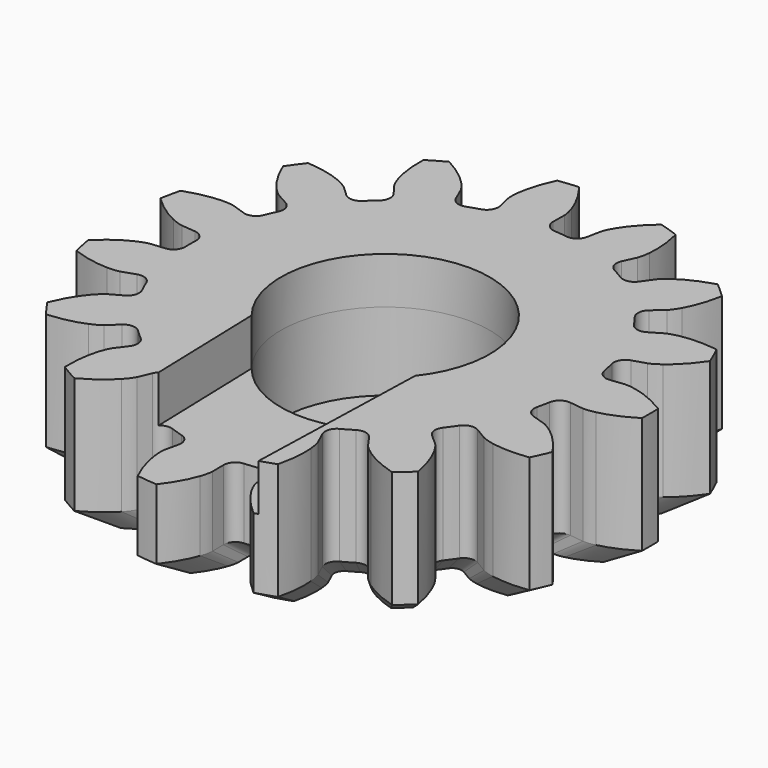
from build123d import *

# Parameters (mm, degrees)
SKETCH194_R     = 3.35
PAD127031_DEPTH = 4
PAD127030_DEPTH = 1.5


with BuildPart() as pad127031:
    # Sketch194 → Pad127031 (new body)
    with BuildSketch(Plane(origin=(35, 160, 18), x_dir=(0, 1, 0), z_dir=(0, 0, 1))):
        Circle(SKETCH194_R)
    extrude(amount=-PAD127031_DEPTH)


with BuildPart() as servohorncutout:
    # Sketch193 → Pad127030 (new body)
    with BuildSketch(Plane(origin=(35, 160, 18), x_dir=(0, 1, 0), z_dir=(0, 0, 1))):
        with BuildLine():
            ThreePointArc((-2.081316, -2.625), (3.35, 0), (-2.081316, 2.625))
            Line((-14.816386, 2.24902), (-2.081316, 2.625))
            ThreePointArc((-14.816386, 2.24902), (-17, 0), (-14.816386, -2.24902))
            Line((-14.816386, -2.24902), (-2.081316, -2.625))
        make_face()
    extrude(amount=-PAD127030_DEPTH)

    # Fusion004020024: union Pad127031
    add(pad127031.part)


with BuildPart() as servogear:
    # InvoluteGear008 → Loft008 section 0
    with BuildSketch(Plane.XY):
        with BuildLine():
            Line((5.582043, -0.670951), (5.961836, -0.715937))
            add(Edge.make_bspline(
                [(5.961836, -0.715937), (5.998774, -0.717834), (6.109807, -0.718548), (6.29569, -0.67705)],
                knots=[0, 0, 0, 0, 1, 1, 1, 1], degree=3))
            add(Edge.make_bspline(
                [(6.29569, -0.67705), (6.517506, -0.626527), (6.834998, -0.516331), (7.22067, -0.278475)],
                knots=[0, 0, 0, 0, 1, 1, 1, 1], degree=3))
            ThreePointArc((7.22067, -0.278475), (7.226039, 0), (7.22067, 0.278475))
            add(Edge.make_bspline(
                [(7.22067, 0.278475), (6.834998, 0.516331), (6.517506, 0.626527), (6.29569, 0.67705)],
                knots=[0, 0, 0, 0, 1, 1, 1, 1], degree=3))
            add(Edge.make_bspline(
                [(6.29569, 0.67705), (6.109807, 0.718548), (5.998774, 0.717834), (5.961836, 0.715937)],
                knots=[0, 0, 0, 0, 1, 1, 1, 1], degree=3))
            Line((5.961836, 0.715937), (5.582043, 0.670951))
            ThreePointArc((5.582043, 0.670951), (5.354491, 0.731128), (5.230276, 0.931057))
            ThreePointArc((5.230276, 0.931057), (5.196409, 1.104531), (5.15679, 1.276782))
            ThreePointArc((5.15679, 1.276782), (5.188948, 1.509949), (5.37235, 1.657477))
            Line((5.37235, 1.657477), (5.737606, 1.770857))
            add(Edge.make_bspline(
                [(5.737606, 1.770857), (5.772122, 1.784147), (5.873846, 1.828657), (6.02678, 1.942172)],
                knots=[0, 0, 0, 0, 1, 1, 1, 1], degree=3))
            add(Edge.make_bspline(
                [(6.02678, 1.942172), (6.208869, 2.078547), (6.454092, 2.308352), (6.709676, 2.682511)],
                knots=[0, 0, 0, 0, 1, 1, 1, 1], degree=3))
            ThreePointArc((6.709676, 2.682511), (6.601315, 2.939095), (6.483144, 3.191311))
            add(Edge.make_bspline(
                [(6.483144, 3.191311), (6.03407, 3.251736), (5.699206, 3.22327), (5.476018, 3.179204)],
                knots=[0, 0, 0, 0, 1, 1, 1, 1], degree=3))
            add(Edge.make_bspline(
                [(5.476018, 3.179204), (5.289327, 3.141508), (5.188183, 3.095695), (5.155211, 3.078938)],
                knots=[0, 0, 0, 0, 1, 1, 1, 1], degree=3))
            Line((5.155211, 3.078938), (4.82655, 2.883365))
            ThreePointArc((4.82655, 2.883365), (4.594195, 2.845786), (4.3994, 2.977908))
            ThreePointArc((4.3994, 2.977908), (4.297903, 3.122609), (4.191648, 3.263854))
            ThreePointArc((4.191648, 3.263854), (4.126188, 3.489942), (4.233729, 3.699313))
            Line((4.233729, 3.699313), (4.521292, 3.951453))
            add(Edge.make_bspline(
                [(4.521292, 3.951453), (4.547418, 3.977633), (4.622244, 4.05967), (4.715785, 4.225574)],
                knots=[0, 0, 0, 0, 1, 1, 1, 1], degree=3))
            add(Edge.make_bspline(
                [(4.715785, 4.225574), (4.826663, 4.424222), (4.957215, 4.7339), (5.038519, 5.179667)],
                knots=[0, 0, 0, 0, 1, 1, 1, 1], degree=3))
            ThreePointArc((5.038519, 5.179667), (4.835164, 5.369993), (4.624624, 5.55234))
            add(Edge.make_bspline(
                [(4.624624, 5.55234), (4.189797, 5.424886), (3.895462, 5.262679), (3.709492, 5.131644)],
                knots=[0, 0, 0, 0, 1, 1, 1, 1], degree=3))
            add(Edge.make_bspline(
                [(3.709492, 5.131644), (3.554274, 5.021274), (3.480508, 4.938283), (3.457203, 4.909563)],
                knots=[0, 0, 0, 0, 1, 1, 1, 1], degree=3))
            Line((3.457203, 4.909563), (3.236502, 4.59722))
            ThreePointArc((3.236502, 4.59722), (3.03952, 4.468383), (2.807828, 4.509851))
            ThreePointArc((2.807828, 4.509851), (2.65625, 4.60076), (2.501732, 4.686576))
            ThreePointArc((2.501732, 4.686576), (2.349973, 4.866493), (2.363058, 5.101503))
            Line((2.363058, 5.101503), (2.523205, 5.448807))
            add(Edge.make_bspline(
                [(2.523205, 5.448807), (2.536424, 5.48335), (2.571414, 5.588729), (2.589388, 5.778337)],
                knots=[0, 0, 0, 0, 1, 1, 1, 1], degree=3))
            add(Edge.make_bspline(
                [(2.589388, 5.778337), (2.609883, 6.004909), (2.603191, 6.340914), (2.496155, 6.781212)],
                knots=[0, 0, 0, 0, 1, 1, 1, 1], degree=3))
            ThreePointArc((2.496155, 6.781212), (2.232969, 6.872371), (1.966464, 6.953319))
            add(Edge.make_bspline(
                [(1.966464, 6.953319), (1.62107, 6.660024), (1.418157, 6.392124), (1.301562, 6.196777)],
                knots=[0, 0, 0, 0, 1, 1, 1, 1], degree=3))
            add(Edge.make_bspline(
                [(1.301562, 6.196777), (1.204655, 6.032816), (1.171022, 5.926996), (1.161412, 5.89128)],
                knots=[0, 0, 0, 0, 1, 1, 1, 1], degree=3))
            Line((1.161412, 5.89128), (1.086834, 5.516173))
            ThreePointArc((1.086834, 5.516173), (0.959285, 5.318355), (0.730757, 5.262001))
            ThreePointArc((0.730757, 5.262001), (0.555307, 5.283398), (0.379244, 5.298946))
            ThreePointArc((0.379244, 5.298946), (0.167426, 5.401583), (0.083793, 5.621597))
            Line((0.083793, 5.621597), (0.088833, 6.004013))
            add(Edge.make_bspline(
                [(0.088833, 6.004013), (0.086859, 6.040946), (0.075963, 6.151446), (0.015263, 6.331972)],
                knots=[0, 0, 0, 0, 1, 1, 1, 1], degree=3))
            add(Edge.make_bspline(
                [(0.015263, 6.331972), (-0.05817, 6.547292), (-0.200949, 6.851526), (-0.477816, 7.210223)],
                knots=[0, 0, 0, 0, 1, 1, 1, 1], degree=3))
            ThreePointArc((-0.477816, 7.210223), (-0.755327, 7.186454), (-1.031715, 7.152006))
            add(Edge.make_bspline(
                [(-1.031715, 7.152006), (-1.227955, 6.743583), (-1.30436, 6.416312), (-1.33142, 6.19043)],
                knots=[0, 0, 0, 0, 1, 1, 1, 1], degree=3))
            add(Edge.make_bspline(
                [(-1.33142, 6.19043), (-1.35326, 6.001229), (-1.340944, 5.890878), (-1.335196, 5.854341)],
                knots=[0, 0, 0, 0, 1, 1, 1, 1], degree=3))
            Line((-1.335196, 5.854341), (-1.250757, 5.48133))
            ThreePointArc((-1.250757, 5.48133), (-1.28682, 5.248735), (-1.472669, 5.104302))
            ThreePointArc((-1.472669, 5.104302), (-1.641653, 5.052488), (-1.808819, 4.995081))
            ThreePointArc((-1.808819, 4.995081), (-2.04407, 5.00269), (-2.209961, 5.169666))
            Line((-2.209961, 5.169666), (-2.360899, 5.52107))
            add(Edge.make_bspline(
                [(-2.360899, 5.52107), (-2.377724, 5.554008), (-2.432623, 5.650522), (-2.561502, 5.790753)],
                knots=[0, 0, 0, 0, 1, 1, 1, 1], degree=3))
            add(Edge.make_bspline(
                [(-2.561502, 5.790753), (-2.716164, 5.957589), (-2.970343, 6.177447), (-3.369168, 6.392521)],
                knots=[0, 0, 0, 0, 1, 1, 1, 1], degree=3))
            ThreePointArc((-3.369168, 6.392521), (-3.613019, 6.257933), (-3.851502, 6.114046))
            add(Edge.make_bspline(
                [(-3.851502, 6.114046), (-3.864655, 5.661116), (-3.801341, 5.331062), (-3.734188, 5.113702)],
                knots=[0, 0, 0, 0, 1, 1, 1, 1], degree=3))
            add(Edge.make_bspline(
                [(-3.734188, 5.113702), (-3.677184, 4.931975), (-3.62105, 4.836173), (-3.600938, 4.805133)],
                knots=[0, 0, 0, 0, 1, 1, 1, 1], degree=3))
            Line((-3.600938, 4.805133), (-3.372082, 4.498715))
            ThreePointArc((-3.372082, 4.498715), (-3.310421, 4.271562), (-3.421457, 4.064024))
            ThreePointArc((-3.421457, 4.064024), (-3.554756, 3.947957), (-3.684121, 3.82752))
            ThreePointArc((-3.684121, 3.82752), (-3.902128, 3.738786), (-4.121593, 3.823853))
            Line((-4.121593, 3.823853), (-4.40241, 4.083485))
            add(Edge.make_bspline(
                [(-4.40241, 4.083485), (-4.431178, 4.106731), (-4.520586, 4.172572), (-4.69536, 4.248259)],
                knots=[0, 0, 0, 0, 1, 1, 1, 1], degree=3))
            add(Edge.make_bspline(
                [(-4.69536, 4.248259), (-4.904509, 4.337765), (-5.226137, 4.435232), (-5.677961, 4.469495)],
                knots=[0, 0, 0, 0, 1, 1, 1, 1], degree=3))
            ThreePointArc((-5.677961, 4.469495), (-5.845988, 4.247359), (-6.005328, 4.018912))
            add(Edge.make_bspline(
                [(-6.005328, 4.018912), (-5.833121, 3.59979), (-5.641036, 3.324023), (-5.49128, 3.152769)],
                knots=[0, 0, 0, 0, 1, 1, 1, 1], degree=3))
            add(Edge.make_bspline(
                [(-5.49128, 3.152769), (-5.36529, 3.009937), (-5.275042, 2.945251), (-5.244044, 2.925075)],
                knots=[0, 0, 0, 0, 1, 1, 1, 1], degree=3))
            Line((-5.244044, 2.925075), (-4.910342, 2.738232))
            ThreePointArc((-4.910342, 2.738232), (-4.761621, 2.555796), (-4.778644, 2.321038))
            ThreePointArc((-4.778644, 2.321038), (-4.85321, 2.160788), (-4.922405, 1.998147))
            ThreePointArc((-4.922405, 1.998147), (-5.085473, 1.828412), (-5.320563, 1.816861))
            Line((-5.320563, 1.816861), (-5.682704, 1.939827))
            add(Edge.make_bspline(
                [(-5.682704, 1.939827), (-5.71844, 1.949363), (-5.826899, 1.973146), (-6.017347, 1.971203)],
                knots=[0, 0, 0, 0, 1, 1, 1, 1], degree=3))
            add(Edge.make_bspline(
                [(-6.017347, 1.971203), (-6.24482, 1.967902), (-6.578285, 1.926124), (-7.004983, 1.773652)],
                knots=[0, 0, 0, 0, 1, 1, 1, 1], degree=3))
            ThreePointArc((-7.004983, 1.773652), (-7.068132, 1.502378), (-7.120779, 1.228872))
            add(Edge.make_bspline(
                [(-7.120779, 1.228872), (-6.792988, 0.916028), (-6.505345, 0.742229), (-6.298881, 0.646692)],
                knots=[0, 0, 0, 0, 1, 1, 1, 1], degree=3))
            add(Edge.make_bspline(
                [(-6.298881, 0.646692), (-6.125688, 0.567455), (-6.016932, 0.545067), (-5.980408, 0.539244)],
                knots=[0, 0, 0, 0, 1, 1, 1, 1], degree=3))
            Line((-5.980408, 0.539244), (-5.59956, 0.504283))
            ThreePointArc((-5.59956, 0.504283), (-5.389493, 0.39811), (-5.30956, 0.176725))
            ThreePointArc((-5.30956, 0.176725), (-5.3125, 0), (-5.30956, -0.176725))
            ThreePointArc((-5.30956, -0.176725), (-5.389493, -0.39811), (-5.59956, -0.504283))
            Line((-5.59956, -0.504283), (-5.980408, -0.539244))
            add(Edge.make_bspline(
                [(-5.980408, -0.539244), (-6.016932, -0.545067), (-6.125688, -0.567455), (-6.298881, -0.646692)],
                knots=[0, 0, 0, 0, 1, 1, 1, 1], degree=3))
            add(Edge.make_bspline(
                [(-6.298881, -0.646692), (-6.505345, -0.742229), (-6.792988, -0.916028), (-7.120779, -1.228872)],
                knots=[0, 0, 0, 0, 1, 1, 1, 1], degree=3))
            ThreePointArc((-7.120779, -1.228872), (-7.068132, -1.502378), (-7.004983, -1.773652))
            add(Edge.make_bspline(
                [(-7.004983, -1.773652), (-6.578285, -1.926124), (-6.24482, -1.967902), (-6.017347, -1.971203)],
                knots=[0, 0, 0, 0, 1, 1, 1, 1], degree=3))
            add(Edge.make_bspline(
                [(-6.017347, -1.971203), (-5.826899, -1.973146), (-5.71844, -1.949363), (-5.682704, -1.939827)],
                knots=[0, 0, 0, 0, 1, 1, 1, 1], degree=3))
            Line((-5.682704, -1.939827), (-5.320563, -1.816861))
            ThreePointArc((-5.320563, -1.816861), (-5.085473, -1.828412), (-4.922405, -1.998147))
            ThreePointArc((-4.922405, -1.998147), (-4.85321, -2.160788), (-4.778644, -2.321038))
            ThreePointArc((-4.778644, -2.321038), (-4.761621, -2.555796), (-4.910342, -2.738232))
            Line((-4.910342, -2.738232), (-5.244044, -2.925075))
            add(Edge.make_bspline(
                [(-5.244044, -2.925075), (-5.275042, -2.945251), (-5.36529, -3.009937), (-5.49128, -3.152769)],
                knots=[0, 0, 0, 0, 1, 1, 1, 1], degree=3))
            add(Edge.make_bspline(
                [(-5.49128, -3.152769), (-5.641036, -3.324023), (-5.833121, -3.59979), (-6.005328, -4.018912)],
                knots=[0, 0, 0, 0, 1, 1, 1, 1], degree=3))
            ThreePointArc((-6.005328, -4.018912), (-5.845988, -4.247359), (-5.677961, -4.469495))
            add(Edge.make_bspline(
                [(-5.677961, -4.469495), (-5.226137, -4.435232), (-4.904509, -4.337765), (-4.69536, -4.248259)],
                knots=[0, 0, 0, 0, 1, 1, 1, 1], degree=3))
            add(Edge.make_bspline(
                [(-4.69536, -4.248259), (-4.520586, -4.172572), (-4.431178, -4.106731), (-4.40241, -4.083485)],
                knots=[0, 0, 0, 0, 1, 1, 1, 1], degree=3))
            Line((-4.40241, -4.083485), (-4.121593, -3.823853))
            ThreePointArc((-4.121593, -3.823853), (-3.902128, -3.738786), (-3.684121, -3.82752))
            ThreePointArc((-3.684121, -3.82752), (-3.554756, -3.947957), (-3.421457, -4.064024))
            ThreePointArc((-3.421457, -4.064024), (-3.310421, -4.271562), (-3.372082, -4.498715))
            Line((-3.372082, -4.498715), (-3.600938, -4.805133))
            add(Edge.make_bspline(
                [(-3.600938, -4.805133), (-3.62105, -4.836173), (-3.677184, -4.931975), (-3.734188, -5.113702)],
                knots=[0, 0, 0, 0, 1, 1, 1, 1], degree=3))
            add(Edge.make_bspline(
                [(-3.734188, -5.113702), (-3.801341, -5.331062), (-3.864655, -5.661116), (-3.851502, -6.114046)],
                knots=[0, 0, 0, 0, 1, 1, 1, 1], degree=3))
            ThreePointArc((-3.851502, -6.114046), (-3.613019, -6.257933), (-3.369168, -6.392521))
            add(Edge.make_bspline(
                [(-3.369168, -6.392521), (-2.970343, -6.177447), (-2.716164, -5.957589), (-2.561502, -5.790753)],
                knots=[0, 0, 0, 0, 1, 1, 1, 1], degree=3))
            add(Edge.make_bspline(
                [(-2.561502, -5.790753), (-2.432623, -5.650522), (-2.377724, -5.554008), (-2.360899, -5.52107)],
                knots=[0, 0, 0, 0, 1, 1, 1, 1], degree=3))
            Line((-2.360899, -5.52107), (-2.209961, -5.169666))
            ThreePointArc((-2.209961, -5.169666), (-2.04407, -5.00269), (-1.808819, -4.995081))
            ThreePointArc((-1.808819, -4.995081), (-1.641653, -5.052488), (-1.472669, -5.104302))
            ThreePointArc((-1.472669, -5.104302), (-1.28682, -5.248735), (-1.250757, -5.48133))
            Line((-1.250757, -5.48133), (-1.335196, -5.854341))
            add(Edge.make_bspline(
                [(-1.335196, -5.854341), (-1.340944, -5.890878), (-1.35326, -6.001229), (-1.33142, -6.19043)],
                knots=[0, 0, 0, 0, 1, 1, 1, 1], degree=3))
            add(Edge.make_bspline(
                [(-1.33142, -6.19043), (-1.30436, -6.416312), (-1.227955, -6.743583), (-1.031715, -7.152006)],
                knots=[0, 0, 0, 0, 1, 1, 1, 1], degree=3))
            ThreePointArc((-1.031715, -7.152006), (-0.755327, -7.186454), (-0.477816, -7.210223))
            add(Edge.make_bspline(
                [(-0.477816, -7.210223), (-0.200949, -6.851526), (-0.05817, -6.547292), (0.015263, -6.331972)],
                knots=[0, 0, 0, 0, 1, 1, 1, 1], degree=3))
            add(Edge.make_bspline(
                [(0.015263, -6.331972), (0.075963, -6.151446), (0.086859, -6.040946), (0.088833, -6.004013)],
                knots=[0, 0, 0, 0, 1, 1, 1, 1], degree=3))
            Line((0.088833, -6.004013), (0.083793, -5.621597))
            ThreePointArc((0.083793, -5.621597), (0.167426, -5.401583), (0.379244, -5.298946))
            ThreePointArc((0.379244, -5.298946), (0.555307, -5.283398), (0.730757, -5.262001))
            ThreePointArc((0.730757, -5.262001), (0.959285, -5.318355), (1.086834, -5.516173))
            Line((1.086834, -5.516173), (1.161412, -5.89128))
            add(Edge.make_bspline(
                [(1.161412, -5.89128), (1.171022, -5.926996), (1.204655, -6.032816), (1.301562, -6.196777)],
                knots=[0, 0, 0, 0, 1, 1, 1, 1], degree=3))
            add(Edge.make_bspline(
                [(1.301562, -6.196777), (1.418157, -6.392124), (1.62107, -6.660024), (1.966464, -6.953319)],
                knots=[0, 0, 0, 0, 1, 1, 1, 1], degree=3))
            ThreePointArc((1.966464, -6.953319), (2.232969, -6.872371), (2.496155, -6.781212))
            add(Edge.make_bspline(
                [(2.496155, -6.781212), (2.603191, -6.340914), (2.609883, -6.004909), (2.589388, -5.778337)],
                knots=[0, 0, 0, 0, 1, 1, 1, 1], degree=3))
            add(Edge.make_bspline(
                [(2.589388, -5.778337), (2.571414, -5.588729), (2.536424, -5.48335), (2.523205, -5.448807)],
                knots=[0, 0, 0, 0, 1, 1, 1, 1], degree=3))
            Line((2.523205, -5.448807), (2.363058, -5.101503))
            ThreePointArc((2.363058, -5.101503), (2.349973, -4.866493), (2.501732, -4.686576))
            ThreePointArc((2.501732, -4.686576), (2.65625, -4.60076), (2.807828, -4.509851))
            ThreePointArc((2.807828, -4.509851), (3.03952, -4.468383), (3.236502, -4.59722))
            Line((3.236502, -4.59722), (3.457203, -4.909563))
            add(Edge.make_bspline(
                [(3.457203, -4.909563), (3.480508, -4.938283), (3.554274, -5.021274), (3.709492, -5.131644)],
                knots=[0, 0, 0, 0, 1, 1, 1, 1], degree=3))
            add(Edge.make_bspline(
                [(3.709492, -5.131644), (3.895462, -5.262679), (4.189797, -5.424886), (4.624624, -5.55234)],
                knots=[0, 0, 0, 0, 1, 1, 1, 1], degree=3))
            ThreePointArc((4.624624, -5.55234), (4.835164, -5.369993), (5.038519, -5.179667))
            add(Edge.make_bspline(
                [(5.038519, -5.179667), (4.957215, -4.7339), (4.826663, -4.424222), (4.715785, -4.225574)],
                knots=[0, 0, 0, 0, 1, 1, 1, 1], degree=3))
            add(Edge.make_bspline(
                [(4.715785, -4.225574), (4.622244, -4.05967), (4.547418, -3.977633), (4.521292, -3.951453)],
                knots=[0, 0, 0, 0, 1, 1, 1, 1], degree=3))
            Line((4.521292, -3.951453), (4.233729, -3.699313))
            ThreePointArc((4.233729, -3.699313), (4.126188, -3.489942), (4.191648, -3.263854))
            ThreePointArc((4.191648, -3.263854), (4.297903, -3.122609), (4.3994, -2.977908))
            ThreePointArc((4.3994, -2.977908), (4.594195, -2.845786), (4.82655, -2.883365))
            Line((4.82655, -2.883365), (5.155211, -3.078938))
            add(Edge.make_bspline(
                [(5.155211, -3.078938), (5.188183, -3.095695), (5.289327, -3.141508), (5.476018, -3.179204)],
                knots=[0, 0, 0, 0, 1, 1, 1, 1], degree=3))
            add(Edge.make_bspline(
                [(5.476018, -3.179204), (5.699206, -3.22327), (6.03407, -3.251736), (6.483144, -3.191311)],
                knots=[0, 0, 0, 0, 1, 1, 1, 1], degree=3))
            ThreePointArc((6.483144, -3.191311), (6.601315, -2.939095), (6.709676, -2.682511))
            add(Edge.make_bspline(
                [(6.709676, -2.682511), (6.454092, -2.308352), (6.208869, -2.078547), (6.02678, -1.942172)],
                knots=[0, 0, 0, 0, 1, 1, 1, 1], degree=3))
            add(Edge.make_bspline(
                [(6.02678, -1.942172), (5.873846, -1.828657), (5.772122, -1.784147), (5.737606, -1.770857)],
                knots=[0, 0, 0, 0, 1, 1, 1, 1], degree=3))
            Line((5.737606, -1.770857), (5.37235, -1.657477))
            ThreePointArc((5.37235, -1.657477), (5.188948, -1.509949), (5.15679, -1.276782))
            ThreePointArc((5.15679, -1.276782), (5.196409, -1.104531), (5.230276, -0.931057))
            ThreePointArc((5.230276, -0.931057), (5.354491, -0.731128), (5.582043, -0.670951))
        make_face()
    # InvoluteGear007 → Loft008 section 1
    with BuildSketch(Plane.XY.offset(0.75)):
        with BuildLine():
            Line((6.567109, -0.789354), (7.013925, -0.842279))
            add(Edge.make_bspline(
                [(7.013925, -0.842279), (7.057381, -0.844511), (7.188009, -0.84535), (7.406694, -0.79653)],
                knots=[0, 0, 0, 0, 1, 1, 1, 1], degree=3))
            add(Edge.make_bspline(
                [(7.406694, -0.79653), (7.667654, -0.737091), (8.041174, -0.607449), (8.494906, -0.327618)],
                knots=[0, 0, 0, 0, 1, 1, 1, 1], degree=3))
            ThreePointArc((8.494906, -0.327618), (8.501222, 0), (8.494906, 0.327618))
            add(Edge.make_bspline(
                [(8.494906, 0.327618), (8.041174, 0.607449), (7.667654, 0.737091), (7.406694, 0.79653)],
                knots=[0, 0, 0, 0, 1, 1, 1, 1], degree=3))
            add(Edge.make_bspline(
                [(7.406694, 0.79653), (7.188009, 0.84535), (7.057381, 0.844511), (7.013925, 0.842279)],
                knots=[0, 0, 0, 0, 1, 1, 1, 1], degree=3))
            Line((7.013925, 0.842279), (6.567109, 0.789354))
            ThreePointArc((6.567109, 0.789354), (6.299402, 0.860151), (6.153266, 1.095361))
            ThreePointArc((6.153266, 1.095361), (6.113423, 1.299448), (6.066812, 1.502097))
            ThreePointArc((6.066812, 1.502097), (6.104644, 1.776411), (6.320412, 1.949974))
            Line((6.320412, 1.949974), (6.750125, 2.083361))
            add(Edge.make_bspline(
                [(6.750125, 2.083361), (6.790732, 2.098996), (6.910408, 2.151361), (7.090329, 2.284908)],
                knots=[0, 0, 0, 0, 1, 1, 1, 1], degree=3))
            add(Edge.make_bspline(
                [(7.090329, 2.284908), (7.304552, 2.44535), (7.593049, 2.715708), (7.893737, 3.155896)],
                knots=[0, 0, 0, 0, 1, 1, 1, 1], degree=3))
            ThreePointArc((7.893737, 3.155896), (7.766253, 3.457758), (7.627228, 3.754483))
            add(Edge.make_bspline(
                [(7.627228, 3.754483), (7.098906, 3.825572), (6.704948, 3.792082), (6.442374, 3.74024)],
                knots=[0, 0, 0, 0, 1, 1, 1, 1], degree=3))
            add(Edge.make_bspline(
                [(6.442374, 3.74024), (6.222738, 3.695892), (6.103745, 3.641994), (6.064954, 3.62228)],
                knots=[0, 0, 0, 0, 1, 1, 1, 1], degree=3))
            Line((6.064954, 3.62228), (5.678294, 3.392194))
            ThreePointArc((5.678294, 3.392194), (5.404935, 3.347984), (5.175765, 3.503421))
            ThreePointArc((5.175765, 3.503421), (5.056356, 3.673658), (4.931351, 3.839828))
            ThreePointArc((4.931351, 3.839828), (4.854339, 4.105815), (4.980858, 4.352132))
            Line((4.980858, 4.352132), (5.319167, 4.648768))
            add(Edge.make_bspline(
                [(5.319167, 4.648768), (5.349903, 4.679568), (5.437934, 4.776082), (5.547983, 4.971264)],
                knots=[0, 0, 0, 0, 1, 1, 1, 1], degree=3))
            add(Edge.make_bspline(
                [(5.547983, 4.971264), (5.678427, 5.204967), (5.832018, 5.569294), (5.927669, 6.093726)],
                knots=[0, 0, 0, 0, 1, 1, 1, 1], degree=3))
            ThreePointArc((5.927669, 6.093726), (5.688428, 6.317639), (5.440734, 6.532165))
            add(Edge.make_bspline(
                [(5.440734, 6.532165), (4.929173, 6.382219), (4.582897, 6.191387), (4.364109, 6.037229)],
                knots=[0, 0, 0, 0, 1, 1, 1, 1], degree=3))
            add(Edge.make_bspline(
                [(4.364109, 6.037229), (4.181499, 5.907381), (4.094716, 5.809744), (4.067297, 5.775957)],
                knots=[0, 0, 0, 0, 1, 1, 1, 1], degree=3))
            Line((4.067297, 5.775957), (3.80765, 5.408494))
            ThreePointArc((3.80765, 5.408494), (3.575906, 5.256921), (3.303327, 5.305707))
            ThreePointArc((3.303327, 5.305707), (3.125, 5.412659), (2.943214, 5.513619))
            ThreePointArc((2.943214, 5.513619), (2.764674, 5.725286), (2.780068, 6.001768))
            Line((2.780068, 6.001768), (2.968477, 6.410361))
            add(Edge.make_bspline(
                [(2.968477, 6.410361), (2.984028, 6.451), (3.025193, 6.574975), (3.046339, 6.798043)],
                knots=[0, 0, 0, 0, 1, 1, 1, 1], degree=3))
            add(Edge.make_bspline(
                [(3.046339, 6.798043), (3.070451, 7.064599), (3.062577, 7.459899), (2.936653, 7.977896)],
                knots=[0, 0, 0, 0, 1, 1, 1, 1], degree=3))
            ThreePointArc((2.936653, 7.977896), (2.627022, 8.085143), (2.313487, 8.180375))
            add(Edge.make_bspline(
                [(2.313487, 8.180375), (1.907141, 7.835322), (1.66842, 7.520146), (1.53125, 7.290326)],
                knots=[0, 0, 0, 0, 1, 1, 1, 1], degree=3))
            add(Edge.make_bspline(
                [(1.53125, 7.290326), (1.417241, 7.09743), (1.377673, 6.972936), (1.366368, 6.930918)],
                knots=[0, 0, 0, 0, 1, 1, 1, 1], degree=3))
            Line((1.366368, 6.930918), (1.278628, 6.489615))
            ThreePointArc((1.278628, 6.489615), (1.12857, 6.256888), (0.859714, 6.190589))
            ThreePointArc((0.859714, 6.190589), (0.653303, 6.215762), (0.446169, 6.234054))
            ThreePointArc((0.446169, 6.234054), (0.196972, 6.354803), (0.09858, 6.613644))
            Line((0.09858, 6.613644), (0.10451, 7.063544))
            add(Edge.make_bspline(
                [(0.10451, 7.063544), (0.102187, 7.106995), (0.089368, 7.236995), (0.017956, 7.449379)],
                knots=[0, 0, 0, 0, 1, 1, 1, 1], degree=3))
            add(Edge.make_bspline(
                [(0.017956, 7.449379), (-0.068435, 7.702697), (-0.236411, 8.060619), (-0.562136, 8.482615)],
                knots=[0, 0, 0, 0, 1, 1, 1, 1], degree=3))
            ThreePointArc((-0.562136, 8.482615), (-0.88862, 8.454651), (-1.213783, 8.414124))
            add(Edge.make_bspline(
                [(-1.213783, 8.414124), (-1.444652, 7.933628), (-1.534541, 7.548603), (-1.566377, 7.282859)],
                knots=[0, 0, 0, 0, 1, 1, 1, 1], degree=3))
            add(Edge.make_bspline(
                [(-1.566377, 7.282859), (-1.592071, 7.060269), (-1.577582, 6.930444), (-1.570819, 6.88746)],
                knots=[0, 0, 0, 0, 1, 1, 1, 1], degree=3))
            Line((-1.570819, 6.88746), (-1.471479, 6.448624))
            ThreePointArc((-1.471479, 6.448624), (-1.513905, 6.174983), (-1.732552, 6.005062))
            ThreePointArc((-1.732552, 6.005062), (-1.931356, 5.944103), (-2.128023, 5.876565))
            ThreePointArc((-2.128023, 5.876565), (-2.404789, 5.885517), (-2.599954, 6.08196))
            Line((-2.599954, 6.08196), (-2.777528, 6.495377))
            add(Edge.make_bspline(
                [(-2.777528, 6.495377), (-2.797323, 6.534127), (-2.86191, 6.647673), (-3.013532, 6.81265)],
                knots=[0, 0, 0, 0, 1, 1, 1, 1], degree=3))
            add(Edge.make_bspline(
                [(-3.013532, 6.81265), (-3.195487, 7.008929), (-3.494521, 7.267585), (-3.963727, 7.520613)],
                knots=[0, 0, 0, 0, 1, 1, 1, 1], degree=3))
            ThreePointArc((-3.963727, 7.520613), (-4.250611, 7.362274), (-4.531178, 7.192995))
            add(Edge.make_bspline(
                [(-4.531178, 7.192995), (-4.546653, 6.660136), (-4.472166, 6.271838), (-4.393162, 6.01612)],
                knots=[0, 0, 0, 0, 1, 1, 1, 1], degree=3))
            add(Edge.make_bspline(
                [(-4.393162, 6.01612), (-4.326099, 5.802323), (-4.260058, 5.689616), (-4.236397, 5.653098)],
                knots=[0, 0, 0, 0, 1, 1, 1, 1], degree=3))
            Line((-4.236397, 5.653098), (-3.967155, 5.292606))
            ThreePointArc((-3.967155, 5.292606), (-3.894613, 5.025366), (-4.025244, 4.781204))
            ThreePointArc((-4.025244, 4.781204), (-4.182066, 4.644655), (-4.33426, 4.502965))
            ThreePointArc((-4.33426, 4.502965), (-4.590739, 4.398572), (-4.848932, 4.49865))
            Line((-4.848932, 4.49865), (-5.179306, 4.8041))
            add(Edge.make_bspline(
                [(-5.179306, 4.8041), (-5.21315, 4.831448), (-5.318337, 4.908908), (-5.523953, 4.997952)],
                knots=[0, 0, 0, 0, 1, 1, 1, 1], degree=3))
            add(Edge.make_bspline(
                [(-5.523953, 4.997952), (-5.770011, 5.103253), (-6.148397, 5.217919), (-6.679954, 5.258229)],
                knots=[0, 0, 0, 0, 1, 1, 1, 1], degree=3))
            ThreePointArc((-6.679954, 5.258229), (-6.877633, 4.996893), (-7.065092, 4.728132))
            add(Edge.make_bspline(
                [(-7.065092, 4.728132), (-6.862495, 4.235047), (-6.636513, 3.910615), (-6.46033, 3.709139)],
                knots=[0, 0, 0, 0, 1, 1, 1, 1], degree=3))
            add(Edge.make_bspline(
                [(-6.46033, 3.709139), (-6.312106, 3.541103), (-6.205932, 3.465001), (-6.169464, 3.441264)],
                knots=[0, 0, 0, 0, 1, 1, 1, 1], degree=3))
            Line((-6.169464, 3.441264), (-5.776873, 3.221449))
            ThreePointArc((-5.776873, 3.221449), (-5.601907, 3.006819), (-5.621934, 2.730633))
            ThreePointArc((-5.621934, 2.730633), (-5.709659, 2.542104), (-5.791064, 2.350761))
            ThreePointArc((-5.791064, 2.350761), (-5.982909, 2.151073), (-6.259486, 2.137483))
            Line((-6.259486, 2.137483), (-6.685535, 2.28215))
            add(Edge.make_bspline(
                [(-6.685535, 2.28215), (-6.727576, 2.293368), (-6.855175, 2.321348), (-7.079232, 2.319062)],
                knots=[0, 0, 0, 0, 1, 1, 1, 1], degree=3))
            add(Edge.make_bspline(
                [(-7.079232, 2.319062), (-7.346847, 2.315179), (-7.739159, 2.266028), (-8.241156, 2.086649)],
                knots=[0, 0, 0, 0, 1, 1, 1, 1], degree=3))
            ThreePointArc((-8.241156, 2.086649), (-8.31545, 1.767503), (-8.377387, 1.445732))
            add(Edge.make_bspline(
                [(-8.377387, 1.445732), (-7.99175, 1.07768), (-7.653347, 0.873211), (-7.410448, 0.760815)],
                knots=[0, 0, 0, 0, 1, 1, 1, 1], degree=3))
            add(Edge.make_bspline(
                [(-7.410448, 0.760815), (-7.206692, 0.667594), (-7.078744, 0.641256), (-7.035774, 0.634404)],
                knots=[0, 0, 0, 0, 1, 1, 1, 1], degree=3))
            Line((-7.035774, 0.634404), (-6.587718, 0.593274))
            ThreePointArc((-6.587718, 0.593274), (-6.34058, 0.468365), (-6.246541, 0.207911))
            ThreePointArc((-6.246541, 0.207911), (-6.25, 0), (-6.246541, -0.207911))
            ThreePointArc((-6.246541, -0.207911), (-6.34058, -0.468365), (-6.587718, -0.593274))
            Line((-6.587718, -0.593274), (-7.035774, -0.634404))
            add(Edge.make_bspline(
                [(-7.035774, -0.634404), (-7.078744, -0.641256), (-7.206692, -0.667594), (-7.410448, -0.760815)],
                knots=[0, 0, 0, 0, 1, 1, 1, 1], degree=3))
            add(Edge.make_bspline(
                [(-7.410448, -0.760815), (-7.653347, -0.873211), (-7.99175, -1.07768), (-8.377387, -1.445732)],
                knots=[0, 0, 0, 0, 1, 1, 1, 1], degree=3))
            ThreePointArc((-8.377387, -1.445732), (-8.31545, -1.767503), (-8.241156, -2.086649))
            add(Edge.make_bspline(
                [(-8.241156, -2.086649), (-7.739159, -2.266028), (-7.346847, -2.315179), (-7.079232, -2.319062)],
                knots=[0, 0, 0, 0, 1, 1, 1, 1], degree=3))
            add(Edge.make_bspline(
                [(-7.079232, -2.319062), (-6.855175, -2.321348), (-6.727576, -2.293368), (-6.685535, -2.28215)],
                knots=[0, 0, 0, 0, 1, 1, 1, 1], degree=3))
            Line((-6.685535, -2.28215), (-6.259486, -2.137483))
            ThreePointArc((-6.259486, -2.137483), (-5.982909, -2.151073), (-5.791064, -2.350761))
            ThreePointArc((-5.791064, -2.350761), (-5.709659, -2.542104), (-5.621934, -2.730633))
            ThreePointArc((-5.621934, -2.730633), (-5.601907, -3.006819), (-5.776873, -3.221449))
            Line((-5.776873, -3.221449), (-6.169464, -3.441264))
            add(Edge.make_bspline(
                [(-6.169464, -3.441264), (-6.205932, -3.465001), (-6.312106, -3.541103), (-6.46033, -3.709139)],
                knots=[0, 0, 0, 0, 1, 1, 1, 1], degree=3))
            add(Edge.make_bspline(
                [(-6.46033, -3.709139), (-6.636513, -3.910615), (-6.862495, -4.235047), (-7.065092, -4.728132)],
                knots=[0, 0, 0, 0, 1, 1, 1, 1], degree=3))
            ThreePointArc((-7.065092, -4.728132), (-6.877633, -4.996893), (-6.679954, -5.258229))
            add(Edge.make_bspline(
                [(-6.679954, -5.258229), (-6.148397, -5.217919), (-5.770011, -5.103253), (-5.523953, -4.997952)],
                knots=[0, 0, 0, 0, 1, 1, 1, 1], degree=3))
            add(Edge.make_bspline(
                [(-5.523953, -4.997952), (-5.318337, -4.908908), (-5.21315, -4.831448), (-5.179306, -4.8041)],
                knots=[0, 0, 0, 0, 1, 1, 1, 1], degree=3))
            Line((-5.179306, -4.8041), (-4.848932, -4.49865))
            ThreePointArc((-4.848932, -4.49865), (-4.590739, -4.398572), (-4.33426, -4.502965))
            ThreePointArc((-4.33426, -4.502965), (-4.182066, -4.644655), (-4.025244, -4.781204))
            ThreePointArc((-4.025244, -4.781204), (-3.894613, -5.025366), (-3.967155, -5.292606))
            Line((-3.967155, -5.292606), (-4.236397, -5.653098))
            add(Edge.make_bspline(
                [(-4.236397, -5.653098), (-4.260058, -5.689616), (-4.326099, -5.802323), (-4.393162, -6.01612)],
                knots=[0, 0, 0, 0, 1, 1, 1, 1], degree=3))
            add(Edge.make_bspline(
                [(-4.393162, -6.01612), (-4.472166, -6.271838), (-4.546653, -6.660136), (-4.531178, -7.192995)],
                knots=[0, 0, 0, 0, 1, 1, 1, 1], degree=3))
            ThreePointArc((-4.531178, -7.192995), (-4.250611, -7.362274), (-3.963727, -7.520613))
            add(Edge.make_bspline(
                [(-3.963727, -7.520613), (-3.494521, -7.267585), (-3.195487, -7.008929), (-3.013532, -6.81265)],
                knots=[0, 0, 0, 0, 1, 1, 1, 1], degree=3))
            add(Edge.make_bspline(
                [(-3.013532, -6.81265), (-2.86191, -6.647673), (-2.797323, -6.534127), (-2.777528, -6.495377)],
                knots=[0, 0, 0, 0, 1, 1, 1, 1], degree=3))
            Line((-2.777528, -6.495377), (-2.599954, -6.08196))
            ThreePointArc((-2.599954, -6.08196), (-2.404789, -5.885517), (-2.128023, -5.876565))
            ThreePointArc((-2.128023, -5.876565), (-1.931356, -5.944103), (-1.732552, -6.005062))
            ThreePointArc((-1.732552, -6.005062), (-1.513905, -6.174983), (-1.471479, -6.448624))
            Line((-1.471479, -6.448624), (-1.570819, -6.88746))
            add(Edge.make_bspline(
                [(-1.570819, -6.88746), (-1.577582, -6.930444), (-1.592071, -7.060269), (-1.566377, -7.282859)],
                knots=[0, 0, 0, 0, 1, 1, 1, 1], degree=3))
            add(Edge.make_bspline(
                [(-1.566377, -7.282859), (-1.534541, -7.548603), (-1.444652, -7.933628), (-1.213783, -8.414124)],
                knots=[0, 0, 0, 0, 1, 1, 1, 1], degree=3))
            ThreePointArc((-1.213783, -8.414124), (-0.88862, -8.454651), (-0.562136, -8.482615))
            add(Edge.make_bspline(
                [(-0.562136, -8.482615), (-0.236411, -8.060619), (-0.068435, -7.702697), (0.017956, -7.449379)],
                knots=[0, 0, 0, 0, 1, 1, 1, 1], degree=3))
            add(Edge.make_bspline(
                [(0.017956, -7.449379), (0.089368, -7.236995), (0.102187, -7.106995), (0.10451, -7.063544)],
                knots=[0, 0, 0, 0, 1, 1, 1, 1], degree=3))
            Line((0.10451, -7.063544), (0.09858, -6.613644))
            ThreePointArc((0.09858, -6.613644), (0.196972, -6.354803), (0.446169, -6.234054))
            ThreePointArc((0.446169, -6.234054), (0.653303, -6.215762), (0.859714, -6.190589))
            ThreePointArc((0.859714, -6.190589), (1.12857, -6.256888), (1.278628, -6.489615))
            Line((1.278628, -6.489615), (1.366368, -6.930918))
            add(Edge.make_bspline(
                [(1.366368, -6.930918), (1.377673, -6.972936), (1.417241, -7.09743), (1.53125, -7.290326)],
                knots=[0, 0, 0, 0, 1, 1, 1, 1], degree=3))
            add(Edge.make_bspline(
                [(1.53125, -7.290326), (1.66842, -7.520146), (1.907141, -7.835322), (2.313487, -8.180375)],
                knots=[0, 0, 0, 0, 1, 1, 1, 1], degree=3))
            ThreePointArc((2.313487, -8.180375), (2.627022, -8.085143), (2.936653, -7.977896))
            add(Edge.make_bspline(
                [(2.936653, -7.977896), (3.062577, -7.459899), (3.070451, -7.064599), (3.046339, -6.798043)],
                knots=[0, 0, 0, 0, 1, 1, 1, 1], degree=3))
            add(Edge.make_bspline(
                [(3.046339, -6.798043), (3.025193, -6.574975), (2.984028, -6.451), (2.968477, -6.410361)],
                knots=[0, 0, 0, 0, 1, 1, 1, 1], degree=3))
            Line((2.968477, -6.410361), (2.780068, -6.001768))
            ThreePointArc((2.780068, -6.001768), (2.764674, -5.725286), (2.943214, -5.513619))
            ThreePointArc((2.943214, -5.513619), (3.125, -5.412659), (3.303327, -5.305707))
            ThreePointArc((3.303327, -5.305707), (3.575906, -5.256921), (3.80765, -5.408494))
            Line((3.80765, -5.408494), (4.067297, -5.775957))
            add(Edge.make_bspline(
                [(4.067297, -5.775957), (4.094716, -5.809744), (4.181499, -5.907381), (4.364109, -6.037229)],
                knots=[0, 0, 0, 0, 1, 1, 1, 1], degree=3))
            add(Edge.make_bspline(
                [(4.364109, -6.037229), (4.582897, -6.191387), (4.929173, -6.382219), (5.440734, -6.532165)],
                knots=[0, 0, 0, 0, 1, 1, 1, 1], degree=3))
            ThreePointArc((5.440734, -6.532165), (5.688428, -6.317639), (5.927669, -6.093726))
            add(Edge.make_bspline(
                [(5.927669, -6.093726), (5.832018, -5.569294), (5.678427, -5.204967), (5.547983, -4.971264)],
                knots=[0, 0, 0, 0, 1, 1, 1, 1], degree=3))
            add(Edge.make_bspline(
                [(5.547983, -4.971264), (5.437934, -4.776082), (5.349903, -4.679568), (5.319167, -4.648768)],
                knots=[0, 0, 0, 0, 1, 1, 1, 1], degree=3))
            Line((5.319167, -4.648768), (4.980858, -4.352132))
            ThreePointArc((4.980858, -4.352132), (4.854339, -4.105815), (4.931351, -3.839828))
            ThreePointArc((4.931351, -3.839828), (5.056356, -3.673658), (5.175765, -3.503421))
            ThreePointArc((5.175765, -3.503421), (5.404935, -3.347984), (5.678294, -3.392194))
            Line((5.678294, -3.392194), (6.064954, -3.62228))
            add(Edge.make_bspline(
                [(6.064954, -3.62228), (6.103745, -3.641994), (6.222738, -3.695892), (6.442374, -3.74024)],
                knots=[0, 0, 0, 0, 1, 1, 1, 1], degree=3))
            add(Edge.make_bspline(
                [(6.442374, -3.74024), (6.704948, -3.792082), (7.098906, -3.825572), (7.627228, -3.754483)],
                knots=[0, 0, 0, 0, 1, 1, 1, 1], degree=3))
            ThreePointArc((7.627228, -3.754483), (7.766253, -3.457758), (7.893737, -3.155896))
            add(Edge.make_bspline(
                [(7.893737, -3.155896), (7.593049, -2.715708), (7.304552, -2.44535), (7.090329, -2.284908)],
                knots=[0, 0, 0, 0, 1, 1, 1, 1], degree=3))
            add(Edge.make_bspline(
                [(7.090329, -2.284908), (6.910408, -2.151361), (6.790732, -2.098996), (6.750125, -2.083361)],
                knots=[0, 0, 0, 0, 1, 1, 1, 1], degree=3))
            Line((6.750125, -2.083361), (6.320412, -1.949974))
            ThreePointArc((6.320412, -1.949974), (6.104644, -1.776411), (6.066812, -1.502097))
            ThreePointArc((6.066812, -1.502097), (6.113423, -1.299448), (6.153266, -1.095361))
            ThreePointArc((6.153266, -1.095361), (6.299402, -0.860151), (6.567109, -0.789354))
        make_face()
    # InvoluteGear009 → Loft008 section 2
    with BuildSketch(Plane.XY.offset(4.5)):
        with BuildLine():
            Line((6.567109, -0.789354), (7.013925, -0.842279))
            add(Edge.make_bspline(
                [(7.013925, -0.842279), (7.057381, -0.844511), (7.188009, -0.84535), (7.406694, -0.79653)],
                knots=[0, 0, 0, 0, 1, 1, 1, 1], degree=3))
            add(Edge.make_bspline(
                [(7.406694, -0.79653), (7.667654, -0.737091), (8.041174, -0.607449), (8.494906, -0.327618)],
                knots=[0, 0, 0, 0, 1, 1, 1, 1], degree=3))
            ThreePointArc((8.494906, -0.327618), (8.501222, 0), (8.494906, 0.327618))
            add(Edge.make_bspline(
                [(8.494906, 0.327618), (8.041174, 0.607449), (7.667654, 0.737091), (7.406694, 0.79653)],
                knots=[0, 0, 0, 0, 1, 1, 1, 1], degree=3))
            add(Edge.make_bspline(
                [(7.406694, 0.79653), (7.188009, 0.84535), (7.057381, 0.844511), (7.013925, 0.842279)],
                knots=[0, 0, 0, 0, 1, 1, 1, 1], degree=3))
            Line((7.013925, 0.842279), (6.567109, 0.789354))
            ThreePointArc((6.567109, 0.789354), (6.299402, 0.860151), (6.153266, 1.095361))
            ThreePointArc((6.153266, 1.095361), (6.113423, 1.299448), (6.066812, 1.502097))
            ThreePointArc((6.066812, 1.502097), (6.104644, 1.776411), (6.320412, 1.949974))
            Line((6.320412, 1.949974), (6.750125, 2.083361))
            add(Edge.make_bspline(
                [(6.750125, 2.083361), (6.790732, 2.098996), (6.910408, 2.151361), (7.090329, 2.284908)],
                knots=[0, 0, 0, 0, 1, 1, 1, 1], degree=3))
            add(Edge.make_bspline(
                [(7.090329, 2.284908), (7.304552, 2.44535), (7.593049, 2.715708), (7.893737, 3.155896)],
                knots=[0, 0, 0, 0, 1, 1, 1, 1], degree=3))
            ThreePointArc((7.893737, 3.155896), (7.766253, 3.457758), (7.627228, 3.754483))
            add(Edge.make_bspline(
                [(7.627228, 3.754483), (7.098906, 3.825572), (6.704948, 3.792082), (6.442374, 3.74024)],
                knots=[0, 0, 0, 0, 1, 1, 1, 1], degree=3))
            add(Edge.make_bspline(
                [(6.442374, 3.74024), (6.222738, 3.695892), (6.103745, 3.641994), (6.064954, 3.62228)],
                knots=[0, 0, 0, 0, 1, 1, 1, 1], degree=3))
            Line((6.064954, 3.62228), (5.678294, 3.392194))
            ThreePointArc((5.678294, 3.392194), (5.404935, 3.347984), (5.175765, 3.503421))
            ThreePointArc((5.175765, 3.503421), (5.056356, 3.673658), (4.931351, 3.839828))
            ThreePointArc((4.931351, 3.839828), (4.854339, 4.105815), (4.980858, 4.352132))
            Line((4.980858, 4.352132), (5.319167, 4.648768))
            add(Edge.make_bspline(
                [(5.319167, 4.648768), (5.349903, 4.679568), (5.437934, 4.776082), (5.547983, 4.971264)],
                knots=[0, 0, 0, 0, 1, 1, 1, 1], degree=3))
            add(Edge.make_bspline(
                [(5.547983, 4.971264), (5.678427, 5.204967), (5.832018, 5.569294), (5.927669, 6.093726)],
                knots=[0, 0, 0, 0, 1, 1, 1, 1], degree=3))
            ThreePointArc((5.927669, 6.093726), (5.688428, 6.317639), (5.440734, 6.532165))
            add(Edge.make_bspline(
                [(5.440734, 6.532165), (4.929173, 6.382219), (4.582897, 6.191387), (4.364109, 6.037229)],
                knots=[0, 0, 0, 0, 1, 1, 1, 1], degree=3))
            add(Edge.make_bspline(
                [(4.364109, 6.037229), (4.181499, 5.907381), (4.094716, 5.809744), (4.067297, 5.775957)],
                knots=[0, 0, 0, 0, 1, 1, 1, 1], degree=3))
            Line((4.067297, 5.775957), (3.80765, 5.408494))
            ThreePointArc((3.80765, 5.408494), (3.575906, 5.256921), (3.303327, 5.305707))
            ThreePointArc((3.303327, 5.305707), (3.125, 5.412659), (2.943214, 5.513619))
            ThreePointArc((2.943214, 5.513619), (2.764674, 5.725286), (2.780068, 6.001768))
            Line((2.780068, 6.001768), (2.968477, 6.410361))
            add(Edge.make_bspline(
                [(2.968477, 6.410361), (2.984028, 6.451), (3.025193, 6.574975), (3.046339, 6.798043)],
                knots=[0, 0, 0, 0, 1, 1, 1, 1], degree=3))
            add(Edge.make_bspline(
                [(3.046339, 6.798043), (3.070451, 7.064599), (3.062577, 7.459899), (2.936653, 7.977896)],
                knots=[0, 0, 0, 0, 1, 1, 1, 1], degree=3))
            ThreePointArc((2.936653, 7.977896), (2.627022, 8.085143), (2.313487, 8.180375))
            add(Edge.make_bspline(
                [(2.313487, 8.180375), (1.907141, 7.835322), (1.66842, 7.520146), (1.53125, 7.290326)],
                knots=[0, 0, 0, 0, 1, 1, 1, 1], degree=3))
            add(Edge.make_bspline(
                [(1.53125, 7.290326), (1.417241, 7.09743), (1.377673, 6.972936), (1.366368, 6.930918)],
                knots=[0, 0, 0, 0, 1, 1, 1, 1], degree=3))
            Line((1.366368, 6.930918), (1.278628, 6.489615))
            ThreePointArc((1.278628, 6.489615), (1.12857, 6.256888), (0.859714, 6.190589))
            ThreePointArc((0.859714, 6.190589), (0.653303, 6.215762), (0.446169, 6.234054))
            ThreePointArc((0.446169, 6.234054), (0.196972, 6.354803), (0.09858, 6.613644))
            Line((0.09858, 6.613644), (0.10451, 7.063544))
            add(Edge.make_bspline(
                [(0.10451, 7.063544), (0.102187, 7.106995), (0.089368, 7.236995), (0.017956, 7.449379)],
                knots=[0, 0, 0, 0, 1, 1, 1, 1], degree=3))
            add(Edge.make_bspline(
                [(0.017956, 7.449379), (-0.068435, 7.702697), (-0.236411, 8.060619), (-0.562136, 8.482615)],
                knots=[0, 0, 0, 0, 1, 1, 1, 1], degree=3))
            ThreePointArc((-0.562136, 8.482615), (-0.88862, 8.454651), (-1.213783, 8.414124))
            add(Edge.make_bspline(
                [(-1.213783, 8.414124), (-1.444652, 7.933628), (-1.534541, 7.548603), (-1.566377, 7.282859)],
                knots=[0, 0, 0, 0, 1, 1, 1, 1], degree=3))
            add(Edge.make_bspline(
                [(-1.566377, 7.282859), (-1.592071, 7.060269), (-1.577582, 6.930444), (-1.570819, 6.88746)],
                knots=[0, 0, 0, 0, 1, 1, 1, 1], degree=3))
            Line((-1.570819, 6.88746), (-1.471479, 6.448624))
            ThreePointArc((-1.471479, 6.448624), (-1.513905, 6.174983), (-1.732552, 6.005062))
            ThreePointArc((-1.732552, 6.005062), (-1.931356, 5.944103), (-2.128023, 5.876565))
            ThreePointArc((-2.128023, 5.876565), (-2.404789, 5.885517), (-2.599954, 6.08196))
            Line((-2.599954, 6.08196), (-2.777528, 6.495377))
            add(Edge.make_bspline(
                [(-2.777528, 6.495377), (-2.797323, 6.534127), (-2.86191, 6.647673), (-3.013532, 6.81265)],
                knots=[0, 0, 0, 0, 1, 1, 1, 1], degree=3))
            add(Edge.make_bspline(
                [(-3.013532, 6.81265), (-3.195487, 7.008929), (-3.494521, 7.267585), (-3.963727, 7.520613)],
                knots=[0, 0, 0, 0, 1, 1, 1, 1], degree=3))
            ThreePointArc((-3.963727, 7.520613), (-4.250611, 7.362274), (-4.531178, 7.192995))
            add(Edge.make_bspline(
                [(-4.531178, 7.192995), (-4.546653, 6.660136), (-4.472166, 6.271838), (-4.393162, 6.01612)],
                knots=[0, 0, 0, 0, 1, 1, 1, 1], degree=3))
            add(Edge.make_bspline(
                [(-4.393162, 6.01612), (-4.326099, 5.802323), (-4.260058, 5.689616), (-4.236397, 5.653098)],
                knots=[0, 0, 0, 0, 1, 1, 1, 1], degree=3))
            Line((-4.236397, 5.653098), (-3.967155, 5.292606))
            ThreePointArc((-3.967155, 5.292606), (-3.894613, 5.025366), (-4.025244, 4.781204))
            ThreePointArc((-4.025244, 4.781204), (-4.182066, 4.644655), (-4.33426, 4.502965))
            ThreePointArc((-4.33426, 4.502965), (-4.590739, 4.398572), (-4.848932, 4.49865))
            Line((-4.848932, 4.49865), (-5.179306, 4.8041))
            add(Edge.make_bspline(
                [(-5.179306, 4.8041), (-5.21315, 4.831448), (-5.318337, 4.908908), (-5.523953, 4.997952)],
                knots=[0, 0, 0, 0, 1, 1, 1, 1], degree=3))
            add(Edge.make_bspline(
                [(-5.523953, 4.997952), (-5.770011, 5.103253), (-6.148397, 5.217919), (-6.679954, 5.258229)],
                knots=[0, 0, 0, 0, 1, 1, 1, 1], degree=3))
            ThreePointArc((-6.679954, 5.258229), (-6.877633, 4.996893), (-7.065092, 4.728132))
            add(Edge.make_bspline(
                [(-7.065092, 4.728132), (-6.862495, 4.235047), (-6.636513, 3.910615), (-6.46033, 3.709139)],
                knots=[0, 0, 0, 0, 1, 1, 1, 1], degree=3))
            add(Edge.make_bspline(
                [(-6.46033, 3.709139), (-6.312106, 3.541103), (-6.205932, 3.465001), (-6.169464, 3.441264)],
                knots=[0, 0, 0, 0, 1, 1, 1, 1], degree=3))
            Line((-6.169464, 3.441264), (-5.776873, 3.221449))
            ThreePointArc((-5.776873, 3.221449), (-5.601907, 3.006819), (-5.621934, 2.730633))
            ThreePointArc((-5.621934, 2.730633), (-5.709659, 2.542104), (-5.791064, 2.350761))
            ThreePointArc((-5.791064, 2.350761), (-5.982909, 2.151073), (-6.259486, 2.137483))
            Line((-6.259486, 2.137483), (-6.685535, 2.28215))
            add(Edge.make_bspline(
                [(-6.685535, 2.28215), (-6.727576, 2.293368), (-6.855175, 2.321348), (-7.079232, 2.319062)],
                knots=[0, 0, 0, 0, 1, 1, 1, 1], degree=3))
            add(Edge.make_bspline(
                [(-7.079232, 2.319062), (-7.346847, 2.315179), (-7.739159, 2.266028), (-8.241156, 2.086649)],
                knots=[0, 0, 0, 0, 1, 1, 1, 1], degree=3))
            ThreePointArc((-8.241156, 2.086649), (-8.31545, 1.767503), (-8.377387, 1.445732))
            add(Edge.make_bspline(
                [(-8.377387, 1.445732), (-7.99175, 1.07768), (-7.653347, 0.873211), (-7.410448, 0.760815)],
                knots=[0, 0, 0, 0, 1, 1, 1, 1], degree=3))
            add(Edge.make_bspline(
                [(-7.410448, 0.760815), (-7.206692, 0.667594), (-7.078744, 0.641256), (-7.035774, 0.634404)],
                knots=[0, 0, 0, 0, 1, 1, 1, 1], degree=3))
            Line((-7.035774, 0.634404), (-6.587718, 0.593274))
            ThreePointArc((-6.587718, 0.593274), (-6.34058, 0.468365), (-6.246541, 0.207911))
            ThreePointArc((-6.246541, 0.207911), (-6.25, 0), (-6.246541, -0.207911))
            ThreePointArc((-6.246541, -0.207911), (-6.34058, -0.468365), (-6.587718, -0.593274))
            Line((-6.587718, -0.593274), (-7.035774, -0.634404))
            add(Edge.make_bspline(
                [(-7.035774, -0.634404), (-7.078744, -0.641256), (-7.206692, -0.667594), (-7.410448, -0.760815)],
                knots=[0, 0, 0, 0, 1, 1, 1, 1], degree=3))
            add(Edge.make_bspline(
                [(-7.410448, -0.760815), (-7.653347, -0.873211), (-7.99175, -1.07768), (-8.377387, -1.445732)],
                knots=[0, 0, 0, 0, 1, 1, 1, 1], degree=3))
            ThreePointArc((-8.377387, -1.445732), (-8.31545, -1.767503), (-8.241156, -2.086649))
            add(Edge.make_bspline(
                [(-8.241156, -2.086649), (-7.739159, -2.266028), (-7.346847, -2.315179), (-7.079232, -2.319062)],
                knots=[0, 0, 0, 0, 1, 1, 1, 1], degree=3))
            add(Edge.make_bspline(
                [(-7.079232, -2.319062), (-6.855175, -2.321348), (-6.727576, -2.293368), (-6.685535, -2.28215)],
                knots=[0, 0, 0, 0, 1, 1, 1, 1], degree=3))
            Line((-6.685535, -2.28215), (-6.259486, -2.137483))
            ThreePointArc((-6.259486, -2.137483), (-5.982909, -2.151073), (-5.791064, -2.350761))
            ThreePointArc((-5.791064, -2.350761), (-5.709659, -2.542104), (-5.621934, -2.730633))
            ThreePointArc((-5.621934, -2.730633), (-5.601907, -3.006819), (-5.776873, -3.221449))
            Line((-5.776873, -3.221449), (-6.169464, -3.441264))
            add(Edge.make_bspline(
                [(-6.169464, -3.441264), (-6.205932, -3.465001), (-6.312106, -3.541103), (-6.46033, -3.709139)],
                knots=[0, 0, 0, 0, 1, 1, 1, 1], degree=3))
            add(Edge.make_bspline(
                [(-6.46033, -3.709139), (-6.636513, -3.910615), (-6.862495, -4.235047), (-7.065092, -4.728132)],
                knots=[0, 0, 0, 0, 1, 1, 1, 1], degree=3))
            ThreePointArc((-7.065092, -4.728132), (-6.877633, -4.996893), (-6.679954, -5.258229))
            add(Edge.make_bspline(
                [(-6.679954, -5.258229), (-6.148397, -5.217919), (-5.770011, -5.103253), (-5.523953, -4.997952)],
                knots=[0, 0, 0, 0, 1, 1, 1, 1], degree=3))
            add(Edge.make_bspline(
                [(-5.523953, -4.997952), (-5.318337, -4.908908), (-5.21315, -4.831448), (-5.179306, -4.8041)],
                knots=[0, 0, 0, 0, 1, 1, 1, 1], degree=3))
            Line((-5.179306, -4.8041), (-4.848932, -4.49865))
            ThreePointArc((-4.848932, -4.49865), (-4.590739, -4.398572), (-4.33426, -4.502965))
            ThreePointArc((-4.33426, -4.502965), (-4.182066, -4.644655), (-4.025244, -4.781204))
            ThreePointArc((-4.025244, -4.781204), (-3.894613, -5.025366), (-3.967155, -5.292606))
            Line((-3.967155, -5.292606), (-4.236397, -5.653098))
            add(Edge.make_bspline(
                [(-4.236397, -5.653098), (-4.260058, -5.689616), (-4.326099, -5.802323), (-4.393162, -6.01612)],
                knots=[0, 0, 0, 0, 1, 1, 1, 1], degree=3))
            add(Edge.make_bspline(
                [(-4.393162, -6.01612), (-4.472166, -6.271838), (-4.546653, -6.660136), (-4.531178, -7.192995)],
                knots=[0, 0, 0, 0, 1, 1, 1, 1], degree=3))
            ThreePointArc((-4.531178, -7.192995), (-4.250611, -7.362274), (-3.963727, -7.520613))
            add(Edge.make_bspline(
                [(-3.963727, -7.520613), (-3.494521, -7.267585), (-3.195487, -7.008929), (-3.013532, -6.81265)],
                knots=[0, 0, 0, 0, 1, 1, 1, 1], degree=3))
            add(Edge.make_bspline(
                [(-3.013532, -6.81265), (-2.86191, -6.647673), (-2.797323, -6.534127), (-2.777528, -6.495377)],
                knots=[0, 0, 0, 0, 1, 1, 1, 1], degree=3))
            Line((-2.777528, -6.495377), (-2.599954, -6.08196))
            ThreePointArc((-2.599954, -6.08196), (-2.404789, -5.885517), (-2.128023, -5.876565))
            ThreePointArc((-2.128023, -5.876565), (-1.931356, -5.944103), (-1.732552, -6.005062))
            ThreePointArc((-1.732552, -6.005062), (-1.513905, -6.174983), (-1.471479, -6.448624))
            Line((-1.471479, -6.448624), (-1.570819, -6.88746))
            add(Edge.make_bspline(
                [(-1.570819, -6.88746), (-1.577582, -6.930444), (-1.592071, -7.060269), (-1.566377, -7.282859)],
                knots=[0, 0, 0, 0, 1, 1, 1, 1], degree=3))
            add(Edge.make_bspline(
                [(-1.566377, -7.282859), (-1.534541, -7.548603), (-1.444652, -7.933628), (-1.213783, -8.414124)],
                knots=[0, 0, 0, 0, 1, 1, 1, 1], degree=3))
            ThreePointArc((-1.213783, -8.414124), (-0.88862, -8.454651), (-0.562136, -8.482615))
            add(Edge.make_bspline(
                [(-0.562136, -8.482615), (-0.236411, -8.060619), (-0.068435, -7.702697), (0.017956, -7.449379)],
                knots=[0, 0, 0, 0, 1, 1, 1, 1], degree=3))
            add(Edge.make_bspline(
                [(0.017956, -7.449379), (0.089368, -7.236995), (0.102187, -7.106995), (0.10451, -7.063544)],
                knots=[0, 0, 0, 0, 1, 1, 1, 1], degree=3))
            Line((0.10451, -7.063544), (0.09858, -6.613644))
            ThreePointArc((0.09858, -6.613644), (0.196972, -6.354803), (0.446169, -6.234054))
            ThreePointArc((0.446169, -6.234054), (0.653303, -6.215762), (0.859714, -6.190589))
            ThreePointArc((0.859714, -6.190589), (1.12857, -6.256888), (1.278628, -6.489615))
            Line((1.278628, -6.489615), (1.366368, -6.930918))
            add(Edge.make_bspline(
                [(1.366368, -6.930918), (1.377673, -6.972936), (1.417241, -7.09743), (1.53125, -7.290326)],
                knots=[0, 0, 0, 0, 1, 1, 1, 1], degree=3))
            add(Edge.make_bspline(
                [(1.53125, -7.290326), (1.66842, -7.520146), (1.907141, -7.835322), (2.313487, -8.180375)],
                knots=[0, 0, 0, 0, 1, 1, 1, 1], degree=3))
            ThreePointArc((2.313487, -8.180375), (2.627022, -8.085143), (2.936653, -7.977896))
            add(Edge.make_bspline(
                [(2.936653, -7.977896), (3.062577, -7.459899), (3.070451, -7.064599), (3.046339, -6.798043)],
                knots=[0, 0, 0, 0, 1, 1, 1, 1], degree=3))
            add(Edge.make_bspline(
                [(3.046339, -6.798043), (3.025193, -6.574975), (2.984028, -6.451), (2.968477, -6.410361)],
                knots=[0, 0, 0, 0, 1, 1, 1, 1], degree=3))
            Line((2.968477, -6.410361), (2.780068, -6.001768))
            ThreePointArc((2.780068, -6.001768), (2.764674, -5.725286), (2.943214, -5.513619))
            ThreePointArc((2.943214, -5.513619), (3.125, -5.412659), (3.303327, -5.305707))
            ThreePointArc((3.303327, -5.305707), (3.575906, -5.256921), (3.80765, -5.408494))
            Line((3.80765, -5.408494), (4.067297, -5.775957))
            add(Edge.make_bspline(
                [(4.067297, -5.775957), (4.094716, -5.809744), (4.181499, -5.907381), (4.364109, -6.037229)],
                knots=[0, 0, 0, 0, 1, 1, 1, 1], degree=3))
            add(Edge.make_bspline(
                [(4.364109, -6.037229), (4.582897, -6.191387), (4.929173, -6.382219), (5.440734, -6.532165)],
                knots=[0, 0, 0, 0, 1, 1, 1, 1], degree=3))
            ThreePointArc((5.440734, -6.532165), (5.688428, -6.317639), (5.927669, -6.093726))
            add(Edge.make_bspline(
                [(5.927669, -6.093726), (5.832018, -5.569294), (5.678427, -5.204967), (5.547983, -4.971264)],
                knots=[0, 0, 0, 0, 1, 1, 1, 1], degree=3))
            add(Edge.make_bspline(
                [(5.547983, -4.971264), (5.437934, -4.776082), (5.349903, -4.679568), (5.319167, -4.648768)],
                knots=[0, 0, 0, 0, 1, 1, 1, 1], degree=3))
            Line((5.319167, -4.648768), (4.980858, -4.352132))
            ThreePointArc((4.980858, -4.352132), (4.854339, -4.105815), (4.931351, -3.839828))
            ThreePointArc((4.931351, -3.839828), (5.056356, -3.673658), (5.175765, -3.503421))
            ThreePointArc((5.175765, -3.503421), (5.404935, -3.347984), (5.678294, -3.392194))
            Line((5.678294, -3.392194), (6.064954, -3.62228))
            add(Edge.make_bspline(
                [(6.064954, -3.62228), (6.103745, -3.641994), (6.222738, -3.695892), (6.442374, -3.74024)],
                knots=[0, 0, 0, 0, 1, 1, 1, 1], degree=3))
            add(Edge.make_bspline(
                [(6.442374, -3.74024), (6.704948, -3.792082), (7.098906, -3.825572), (7.627228, -3.754483)],
                knots=[0, 0, 0, 0, 1, 1, 1, 1], degree=3))
            ThreePointArc((7.627228, -3.754483), (7.766253, -3.457758), (7.893737, -3.155896))
            add(Edge.make_bspline(
                [(7.893737, -3.155896), (7.593049, -2.715708), (7.304552, -2.44535), (7.090329, -2.284908)],
                knots=[0, 0, 0, 0, 1, 1, 1, 1], degree=3))
            add(Edge.make_bspline(
                [(7.090329, -2.284908), (6.910408, -2.151361), (6.790732, -2.098996), (6.750125, -2.083361)],
                knots=[0, 0, 0, 0, 1, 1, 1, 1], degree=3))
            Line((6.750125, -2.083361), (6.320412, -1.949974))
            ThreePointArc((6.320412, -1.949974), (6.104644, -1.776411), (6.066812, -1.502097))
            ThreePointArc((6.066812, -1.502097), (6.113423, -1.299448), (6.153266, -1.095361))
            ThreePointArc((6.153266, -1.095361), (6.299402, -0.860151), (6.567109, -0.789354))
        make_face()
    loft(ruled=True)


with BuildPart() as servogear_1:
    # Loft008 placement: moved
    add(servogear.part.moved(Location((35, 160, 13.5))))

    # Cut007019022: cut ServoHornCutout
    add(servohorncutout.part, mode=Mode.SUBTRACT)


solid = servogear_1.part
